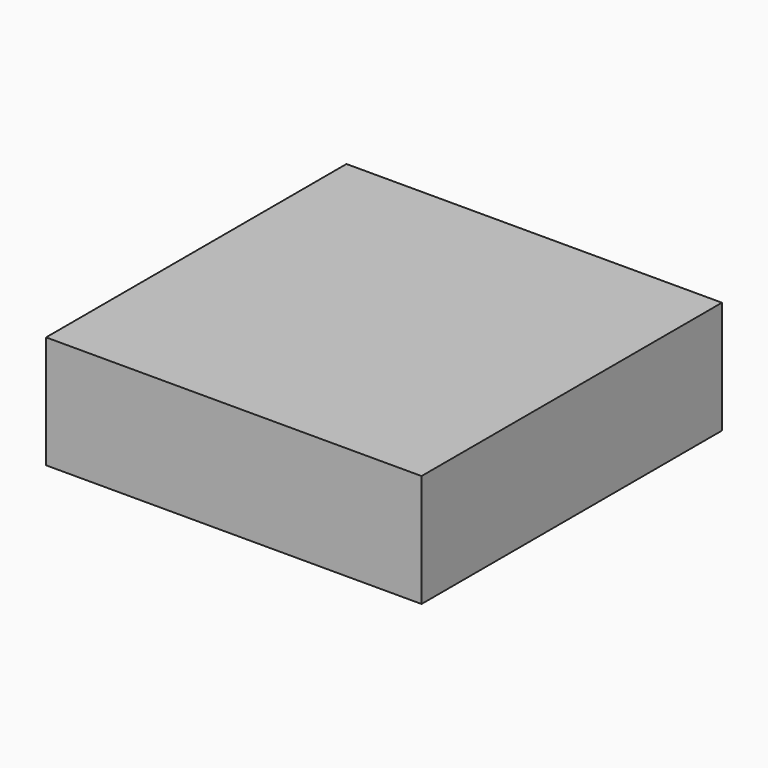
from build123d import *

# Parameters (mm, degrees)
F0_W      = 250
F0_H      = 250
F1_DEPTH  = 5
F3_DEPTH  = 70
F1_FACE_W = 210
F1_FACE_H = 240
F4_DEPTH  = 30
F5_W      = 30
F5_H      = 30
F6_DEPTH  = 40


with BuildPart() as f1:
    # F0 (on Top) → F1 (new body)
    with BuildSketch(Plane.XY):
        Rectangle(F0_W, F0_H)
    extrude(amount=F1_DEPTH)

    # F2 (on face) → F3 (join)
    with BuildSketch(Plane.XY.offset(5)):
        Polygon((-105, -125), (-105, 115), (105, 115), (105, -125), (125, -125), (125, 125), (-125, 125), (-125, -125), align=None)
    extrude(amount=F3_DEPTH)

    # F1_face (on face) → F4 (join)
    with BuildSketch(Plane.XY.offset(5)):
        with Locations((0, -5)):
            Rectangle(F1_FACE_W, F1_FACE_H)
    extrude(amount=F4_DEPTH)

    # F5 (on face) → F6 (join)
    with BuildSketch(Plane.XY.offset(35)):
        with Locations((-90, 100)):
            Rectangle(F5_W, F5_H)
        with Locations((-60, 70)):
            Rectangle(F5_W, F5_H)
        with Locations((-60, 100)):
            Rectangle(F5_W, F5_H)
        with Locations((-90, 70)):
            Rectangle(F5_W, F5_H)
        with Locations((-90, 40)):
            Rectangle(F5_W, F5_H)
        with Locations((-90, 10)):
            Rectangle(F5_W, F5_H)
        with Locations((-90, -20)):
            Rectangle(F5_W, F5_H)
        with Locations((-90, -50)):
            Rectangle(F5_W, F5_H)
        with Locations((-90, -80)):
            Rectangle(F5_W, F5_H)
        with Locations((-90, -110)):
            Rectangle(F5_W, F5_H)
        with Locations((-60, -110)):
            Rectangle(F5_W, F5_H)
        with Locations((-60, -80)):
            Rectangle(F5_W, F5_H)
        with Locations((-60, -50)):
            Rectangle(F5_W, F5_H)
        with Locations((-60, -20)):
            Rectangle(F5_W, F5_H)
        with Locations((-60, 10)):
            Rectangle(F5_W, F5_H)
        with Locations((-60, 40)):
            Rectangle(F5_W, F5_H)
        with Locations((-30, 100)):
            Rectangle(F5_W, F5_H)
        with Locations((-30, 70)):
            Rectangle(F5_W, F5_H)
        with Locations((-30, 40)):
            Rectangle(F5_W, F5_H)
        with Locations((-30, 10)):
            Rectangle(F5_W, F5_H)
        with Locations((-30, -20)):
            Rectangle(F5_W, F5_H)
        with Locations((-30, -110)):
            Rectangle(F5_W, F5_H)
        with Locations((-30, -80)):
            Rectangle(F5_W, F5_H)
        with Locations((-30, -50)):
            Rectangle(F5_W, F5_H)
        with Locations((0, -110)):
            Rectangle(F5_W, F5_H)
        with Locations((0, -80)):
            Rectangle(F5_W, F5_H)
        with Locations((0, -50)):
            Rectangle(F5_W, F5_H)
        with Locations((0, -20)):
            Rectangle(F5_W, F5_H)
        with Locations((0, 10)):
            Rectangle(F5_W, F5_H)
        with Locations((0, 40)):
            Rectangle(F5_W, F5_H)
        with Locations((0, 70)):
            Rectangle(F5_W, F5_H)
        with Locations((0, 100)):
            Rectangle(F5_W, F5_H)
        with Locations((30, 100)):
            Rectangle(F5_W, F5_H)
        with Locations((30, 70)):
            Rectangle(F5_W, F5_H)
        with Locations((30, 40)):
            Rectangle(F5_W, F5_H)
        with Locations((30, 10)):
            Rectangle(F5_W, F5_H)
        with Locations((30, -20)):
            Rectangle(F5_W, F5_H)
        with Locations((30, -50)):
            Rectangle(F5_W, F5_H)
        with Locations((30, -80)):
            Rectangle(F5_W, F5_H)
        with Locations((30, -110)):
            Rectangle(F5_W, F5_H)
        with Locations((60, -110)):
            Rectangle(F5_W, F5_H)
        with Locations((60, -80)):
            Rectangle(F5_W, F5_H)
        with Locations((60, -50)):
            Rectangle(F5_W, F5_H)
        with Locations((60, -20)):
            Rectangle(F5_W, F5_H)
        with Locations((60, 10)):
            Rectangle(F5_W, F5_H)
        with Locations((60, 40)):
            Rectangle(F5_W, F5_H)
        with Locations((60, 70)):
            Rectangle(F5_W, F5_H)
        with Locations((60, 100)):
            Rectangle(F5_W, F5_H)
        with Locations((90, -110)):
            Rectangle(F5_W, F5_H)
        with Locations((90, -80)):
            Rectangle(F5_W, F5_H)
        with Locations((90, -50)):
            Rectangle(F5_W, F5_H)
        with Locations((90, 10)):
            Rectangle(F5_W, F5_H)
        with Locations((90, -20)):
            Rectangle(F5_W, F5_H)
        with Locations((90, 40)):
            Rectangle(F5_W, F5_H)
        with Locations((90, 70)):
            Rectangle(F5_W, F5_H)
        with Locations((90, 100)):
            Rectangle(F5_W, F5_H)
    extrude(amount=F6_DEPTH)


solid = f1.part
